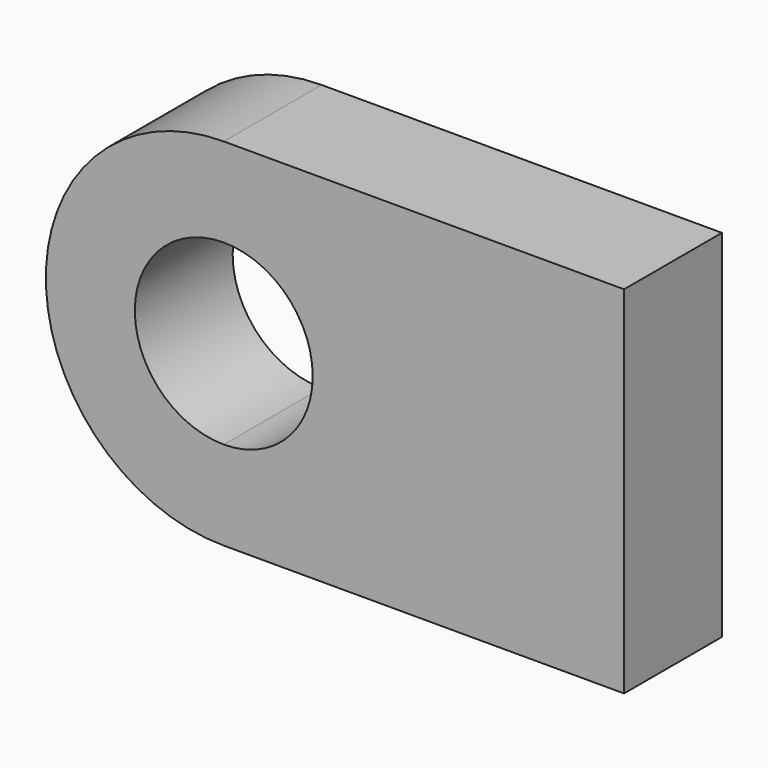
from build123d import *

# Parameters (mm, degrees)
F2_DEPTH = 279.4
F3_DEPTH = 464.82


with BuildPart() as f2:
    # F0 (on Front) → F2 (new body)
    with BuildSketch(Plane.XZ):
        Polygon((914.4, 406.4), (0, 406.4), (0, 0), (0, -406.4), (914.4, -406.4), (914.4, 0), align=None)
        with BuildLine():
            Line((0, 0), (0, 406.4))
            ThreePointArc((0, 406.4), (-406.4, 0), (0, -406.4))
            Line((0, -406.4), (0, 0))
        make_face()
    extrude(amount=F2_DEPTH)

    # F1 (on face) → F3 (cut)
    with BuildSketch(Plane.XZ):
        with BuildLine():
            ThreePointArc((0, -203.2), (143.684098, -143.684098), (203.2, 0))
            ThreePointArc((203.2, 0), (143.684098, 143.684098), (0, 203.2))
            Line((0, 203.2), (0, 0))
            Line((0, 0), (0, -203.2))
        make_face()
        with BuildLine():
            Line((0, 0), (0, 203.2))
            ThreePointArc((0, 203.2), (-203.2, 0), (0, -203.2))
            Line((0, -203.2), (0, 0))
        make_face()
    extrude(amount=F3_DEPTH, mode=Mode.SUBTRACT)


solid = f2.part
